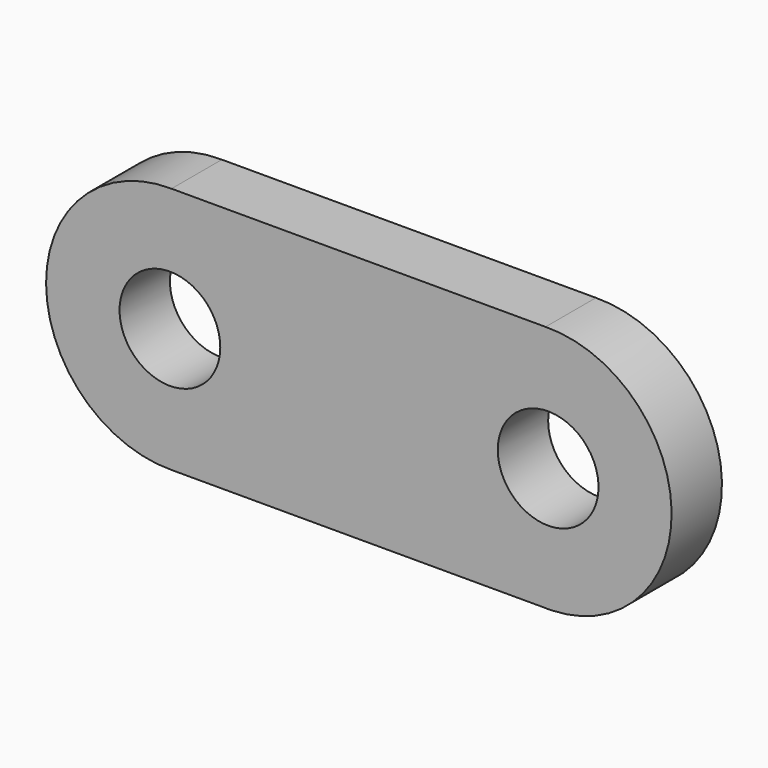
from build123d import *

# Parameters (mm, degrees)
F0_R     = 101.6
F1_DEPTH = 127


with BuildPart() as f1:
    # F0 (on Front) → F1 (new body)
    with BuildSketch(Plane.XZ):
        with BuildLine():
            ThreePointArc((-350.5727146354, -249.7614733395), (-177.0893178173, -174.9104050294), (-105.6363849792, 0))
            ThreePointArc((-105.6363849792, 0), (-177.6708286975, 175.5014063187), (-352.230732019, 249.7883153539))
            ThreePointArc((-352.230732019, 249.7883153539), (-605.2222561445, 4.0063838927), (-360.2434595529, -249.7629175066))
            Line((-360.2434595529, -249.7629175066), (-350.5727146354, -249.7614733395))
        make_face()
        with Locations((-355.4453849792, 0)):
            Circle(F0_R, mode=Mode.SUBTRACT)
        with BuildLine():
            ThreePointArc((-352.230732019, 249.7883153539), (-177.6708286975, 175.5014063187), (-105.6363849792, 0))
            Line((-105.6363849792, 0), (157.0365696106, 0))
            ThreePointArc((157.0365696106, 0), (228.6283631182, 175.0518888532), (402.3693141559, 249.7688924148))
            Line((402.3693141559, 249.7688924148), (-352.230732019, 249.7883153539))
        make_face()
        with BuildLine():
            Line((157.0365696106, 0), (-105.6363849792, 0))
            ThreePointArc((-105.6363849792, 0), (-177.0893178173, -174.9104050294), (-350.5727146354, -249.7614733395))
            Line((-350.5727146354, -249.7614733395), (397.9256440217, -249.6496973931))
            ThreePointArc((397.9256440217, -249.6496973931), (227.0779221147, -173.4593018399), (157.0365696106, 0))
        make_face()
        with BuildLine():
            ThreePointArc((402.3693141559, 249.7688924148), (228.6283631182, 175.0518888532), (157.0365696106, 0))
            ThreePointArc((157.0365696106, 0), (227.0779221147, -173.4593018399), (397.9256440217, -249.6496973931))
            Line((397.9256440217, -249.6496973931), (415.8400569706, -249.6470221696))
            ThreePointArc((415.8400569706, -249.6470221696), (586.6391184019, -173.4324545581), (656.6545696106, 0))
            ThreePointArc((656.6545696106, 0), (581.8974584638, 178.2172064924), (402.3693141559, 249.7688924148))
        make_face()
        with BuildLine():
            ThreePointArc((509.2094031334, 0), (407.6094031334, -101.6), (306.0094031334, 0))
            ThreePointArc((306.0094031334, 0), (407.6094031334, 101.6), (509.2094031334, 0))
        make_face(mode=Mode.SUBTRACT)
        with BuildLine():
            ThreePointArc((-360.2434595529, -249.7629175066), (-355.4080801051, -249.8089972146), (-350.5727146354, -249.7614733395))
            Line((-350.5727146354, -249.7614733395), (-360.2434595529, -249.7629175066))
        make_face()
        with BuildLine():
            Line((415.8400569706, -249.6470221696), (397.9256440217, -249.6496973931))
            ThreePointArc((397.9256440217, -249.6496973931), (406.8828744847, -249.8089972146), (415.8400569706, -249.6470221696))
        make_face()
    extrude(amount=F1_DEPTH)


solid = f1.part
